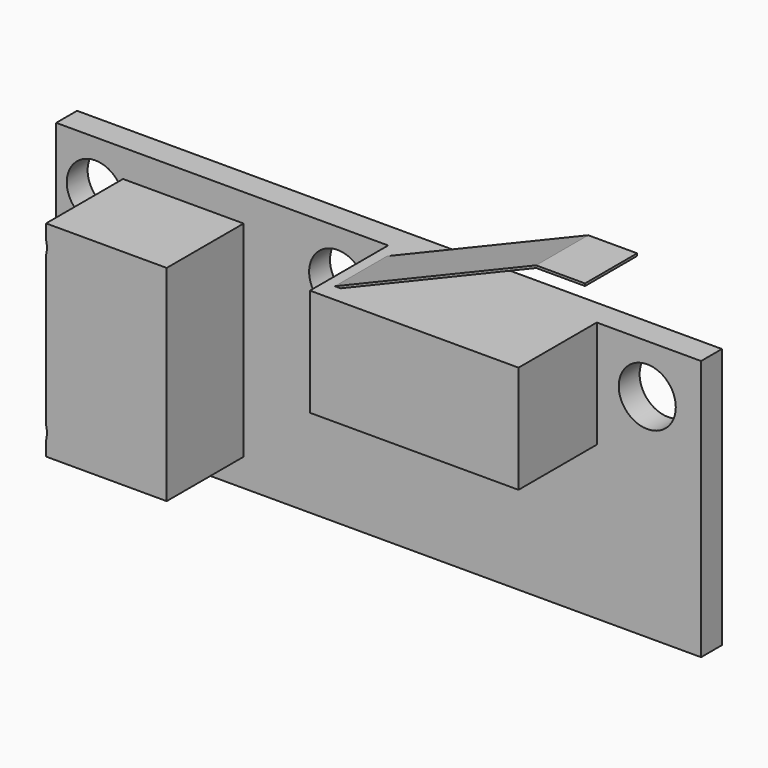
from build123d import *

# Parameters (mm, degrees)
F0_R     = 1.75
F1_DEPTH = 1.6
F2_DEPTH = 7.6
F3_DEPTH = 7.5
F4_START = 2.5
F4_DEPTH = 4


with BuildPart() as f1:
    # F0 (on Front) → F1 (new body)
    with BuildSketch(Plane.XZ):
        Polygon((19.785, -8), (19.785, 8), (13.385, 8), (13.385, 1.4), (0.585, 1.4), (0.585, 8), (-19.785, 8), (-19.785, -8), align=None)
        with BuildLine():
            ThreePointArc((-15.685, 4.5846688069), (-19.135, 5), (-15.685, 5.4153311931))
            Line((-15.685, 5.4153311931), (-15.685, 6.3))
            Line((-15.685, 6.3), (-8.285, 6.3))
            Line((-8.285, 6.3), (-8.285, -6.3))
            Line((-8.285, -6.3), (-15.685, -6.3))
            Line((-15.685, -6.3), (-15.685, -5.4153311931))
            ThreePointArc((-15.685, -5.4153311931), (-19.135, -5), (-15.685, -4.5846688069))
            Line((-15.685, -4.5846688069), (-15.685, 4.5846688069))
        make_face(mode=Mode.SUBTRACT)
        with Locations((-2.515, 5)):
            Circle(F0_R, mode=Mode.SUBTRACT)
        with Locations((16.485, 5)):
            Circle(F0_R, mode=Mode.SUBTRACT)
    extrude(amount=F1_DEPTH)

    # F0 (on Front) → F2 (join)
    with BuildSketch(Plane.XZ):
        Polygon((13.385, 1.4), (13.385, 8), (1.585, 8), (1.2352894992, 8), (0.585, 8), (0.585, 1.4), align=None)
    extrude(amount=F2_DEPTH)

    # F0 (on Front) → F3 (join)
    with BuildSketch(Plane.XZ):
        with BuildLine():
            ThreePointArc((-15.685, 5.4153311931), (-15.6475449646, 5.2091650066), (-15.635, 5))
            ThreePointArc((-15.635, 5), (-15.6475449646, 4.7908349934), (-15.685, 4.5846688069))
            Line((-15.685, 4.5846688069), (-15.685, -4.5846688069))
            ThreePointArc((-15.685, -4.5846688069), (-15.6475449646, -4.7908349934), (-15.635, -5))
            ThreePointArc((-15.635, -5), (-15.6475449646, -5.2091650066), (-15.685, -5.4153311931))
            Line((-15.685, -5.4153311931), (-15.685, -6.3))
            Line((-15.685, -6.3), (-8.285, -6.3))
            Line((-8.285, -6.3), (-8.285, 6.3))
            Line((-8.285, 6.3), (-15.685, 6.3))
            Line((-15.685, 6.3), (-15.685, 5.4153311931))
        make_face()
    extrude(amount=F3_DEPTH)

    # F0 (on Front) → F4 (join)
    with BuildSketch(Plane.XZ.offset(F4_START)):
        Polygon((1.2352894992, 8), (1.585, 8), (13.585, 13), (16.585, 13), (16.585, 13.1444329156), (13.5819284966, 13.1444329156), align=None)
    extrude(amount=F4_DEPTH)


solid = f1.part
